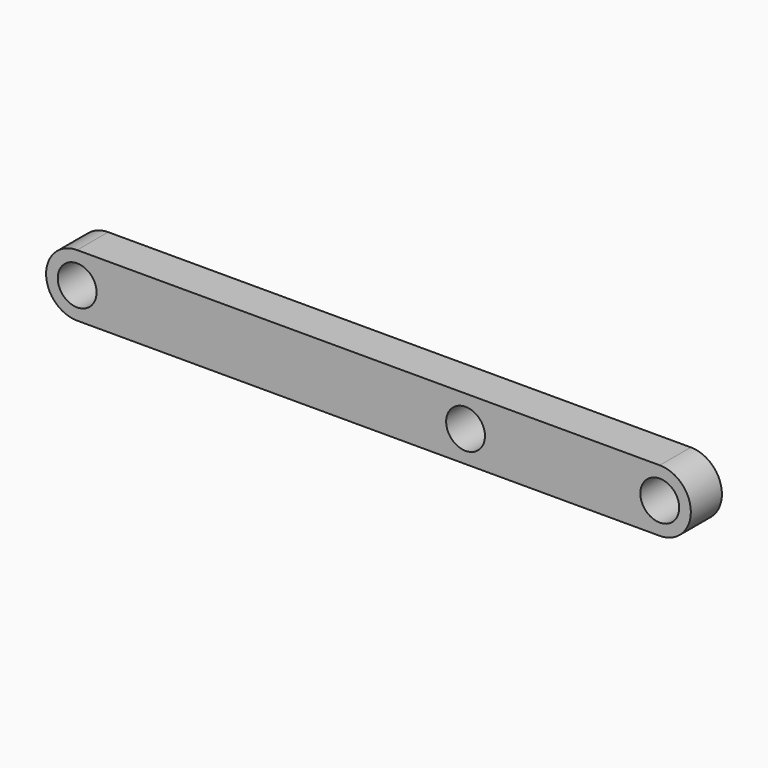
from build123d import *

# Parameters (mm, degrees)
F0_R     = 2.5
F1_DEPTH = 5


with BuildPart() as f1:
    # F0 (on Front) → F1 (new body)
    with BuildSketch(Plane.XZ):
        with BuildLine():
            Line((75, 4), (0, 4))
            ThreePointArc((0, 4), (-4, 0), (0, -4))
            Line((0, -4), (75, -4))
            ThreePointArc((75, -4), (79, 0), (75, 4))
        make_face()
        Circle(F0_R, mode=Mode.SUBTRACT)
        with Locations((50, 0)):
            Circle(F0_R, mode=Mode.SUBTRACT)
        with Locations((75, 0)):
            Circle(F0_R, mode=Mode.SUBTRACT)
    extrude(amount=F1_DEPTH)


solid = f1.part
